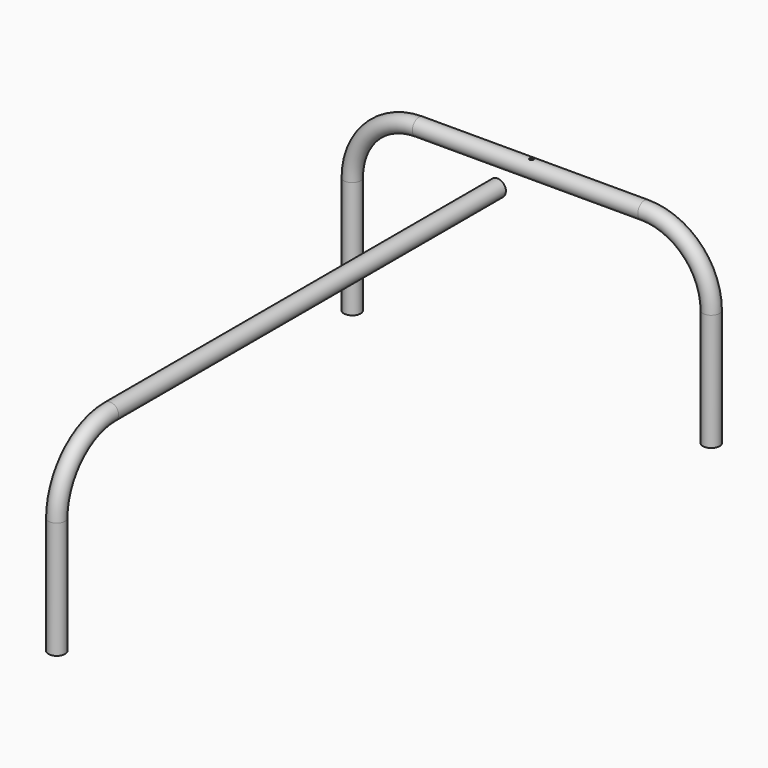
from build123d import *

# Parameters (mm, degrees)
F1_R   = 12.7
F1_R_2 = 11.049
F4_R   = 12.7
F4_R_2 = 11.049
F9_D   = 6.35


with BuildPart() as f2:
    # F2: sweep along a path in F0
    with BuildLine(Plane.XZ) as f2_path:
        Line((-273.05, 0), (-273.05, 177.8))
        ThreePointArc((-273.05, 177.8), (-243.2920489686, 249.6420489686), (-171.45, 279.4))
        Line((-171.45, 279.4), (171.45, 279.4))
        ThreePointArc((171.45, 279.4), (243.2920489686, 249.6420489686), (273.05, 177.8))
        Line((273.05, 177.8), (273.05, 0))
    # F1 (on Top) → F2 (sweep)
    with BuildSketch(Plane.XY):
        with Locations((-273.05, 0)):
            Circle(F1_R)
        with Locations((-273.05, 0)):
            Circle(F1_R_2, mode=Mode.SUBTRACT)
    sweep(path=f2_path.line)

    # F9 (through all)
    with Locations(Plane.XY.offset(292.1)):
        with Locations((0, 0)):
            Hole(F9_D / 2)


with BuildPart() as f5:
    # F5: sweep along a path in F3
    with BuildLine(Plane.YZ) as f5_path:
        Line((-903.208732605, 0), (-903.208732605, 177.8))
        ThreePointArc((-903.208732605, 177.8), (-873.4507815735, 249.6420489686), (-801.608732605, 279.4))
        Line((-801.608732605, 279.4), (-65.008732605, 279.4))
    # F4 (on Top) → F5 (sweep)
    with BuildSketch(Plane.XY):
        with Locations((0, -903.208732605)):
            Circle(F4_R)
        with Locations((0, -903.208732605)):
            Circle(F4_R_2, mode=Mode.SUBTRACT)
    sweep(path=f5_path.line)


solid = Compound([f2.part, f5.part])
